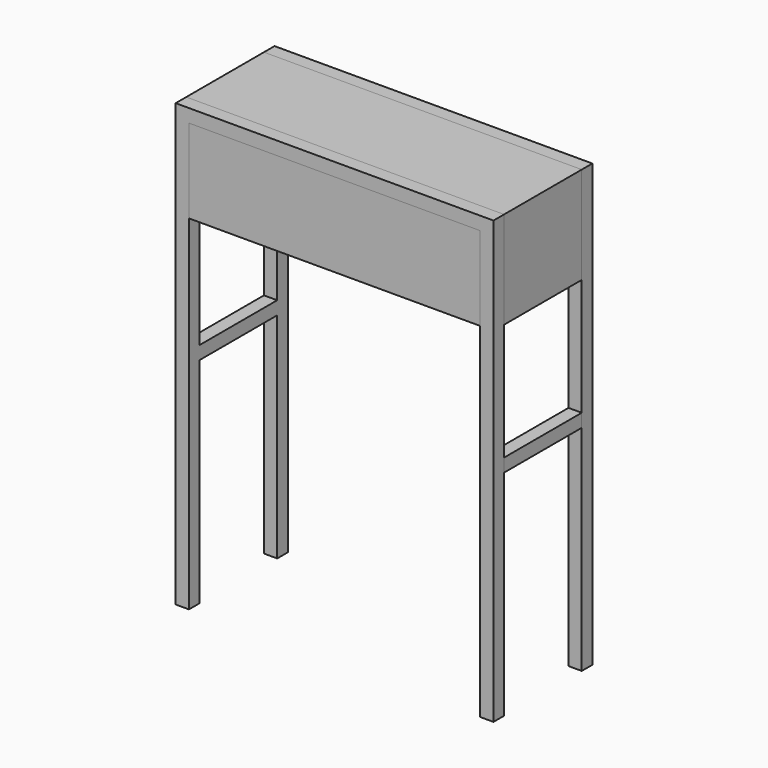
from build123d import *

# Parameters (mm, degrees)
F1_DEPTH = 69.85
F3_DEPTH = 19.05
F5_W     = 419.1
F5_H     = 120.65
F6_DEPTH = 19.05
F8_W     = 19.05
F8_H     = 19.05
F9_DEPTH = 139.7


with BuildPart() as f1:
    # F0 (on Front) → F1 (new body, symmetric)
    with BuildSketch(Plane.XZ):
        Polygon((-209.55, 50.8), (-228.6, 69.85), (-228.6, -69.85), (-209.55, -50.8), align=None)
        Polygon((228.6, 69.85), (-228.6, 69.85), (-209.55, 50.8), (209.55, 50.8), align=None)
        Polygon((228.6, -69.85), (228.6, 69.85), (209.55, 50.8), (209.55, -50.8), align=None)
        Polygon((-209.55, -50.8), (-228.6, -69.85), (228.6, -69.85), (209.55, -50.8), align=None)
    extrude(amount=F1_DEPTH, both=True)


with BuildPart() as f3:
    # F2 (on face) → F3 (new body)
    with BuildSketch(Plane(origin=(0, 69.85, 0), x_dir=(-1, 0, 0), z_dir=(0, 1, 0))):
        Polygon((228.6, 69.85), (-228.6, 69.85), (-209.55, 50.8), (209.55, 50.8), align=None)
        Polygon((-209.55, 50.8), (-228.6, 69.85), (-228.6, -565.15), (-209.55, -565.15), align=None)
        Polygon((228.6, -565.15), (228.6, 69.85), (209.55, 50.8), (209.55, -565.15), align=None)
    extrude(amount=F3_DEPTH)


with BuildPart() as f4_1:
    # F4: instance of F3
    add(f3.part.mirror(Plane.XZ))


with BuildPart() as f6:
    # F5 (on face) → F6 (new body)
    with BuildSketch(Plane.XZ.offset(69.85)):
        with Locations((0, -9.525)):
            Rectangle(F5_W, F5_H)
    extrude(amount=F6_DEPTH)


with BuildPart() as f7_1:
    # F7: instance of F6
    add(f6.part.mirror(Plane.XZ))


with BuildPart() as f3_1:
    add(f3.part)

    add(f4_1.part)  # F9 merges F4_1
    # F8 (on face) → F9 (join, through all)
    with BuildSketch(Plane.XZ.offset(-69.85)):
        with Locations((219.075, -247.65)):
            Rectangle(F8_W, F8_H)
    extrude(amount=F9_DEPTH)


with BuildPart() as f10_1:
    # F10: instance of F3
    add(f3_1.part.mirror(Plane.YZ))


solid = Compound([f1.part, f6.part, f7_1.part, f3_1.part, f10_1.part])
